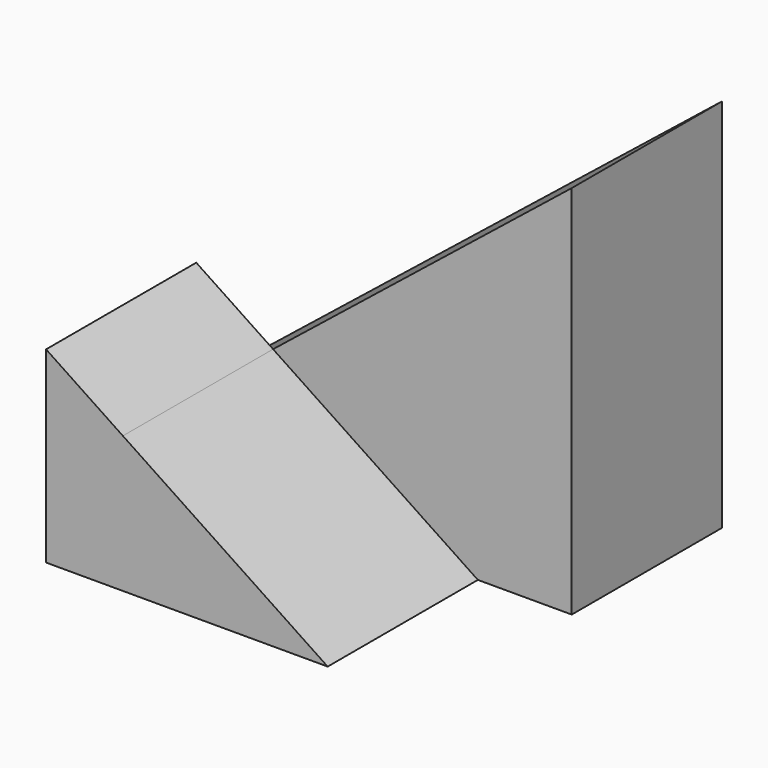
from build123d import *

# Parameters (mm, degrees)
F1_DEPTH = 20
F3_DEPTH = 20


with BuildPart() as f1:
    # F0 (on Front) → F1 (new body)
    with BuildSketch(Plane.XZ):
        Polygon((50, 40), (0, 0), (50, 0), align=None)
    extrude(amount=F1_DEPTH)

    # F2 (on face) → F3 (join)
    with BuildSketch(Plane.XZ.offset(20)):
        Polygon((10, 8), (10, 0), (40, 0), (18.1818181818, 14.5454545455), align=None)
        Polygon((10, 20), (10, 8), (18.1818181818, 14.5454545455), align=None)
    extrude(amount=F3_DEPTH)


solid = f1.part
